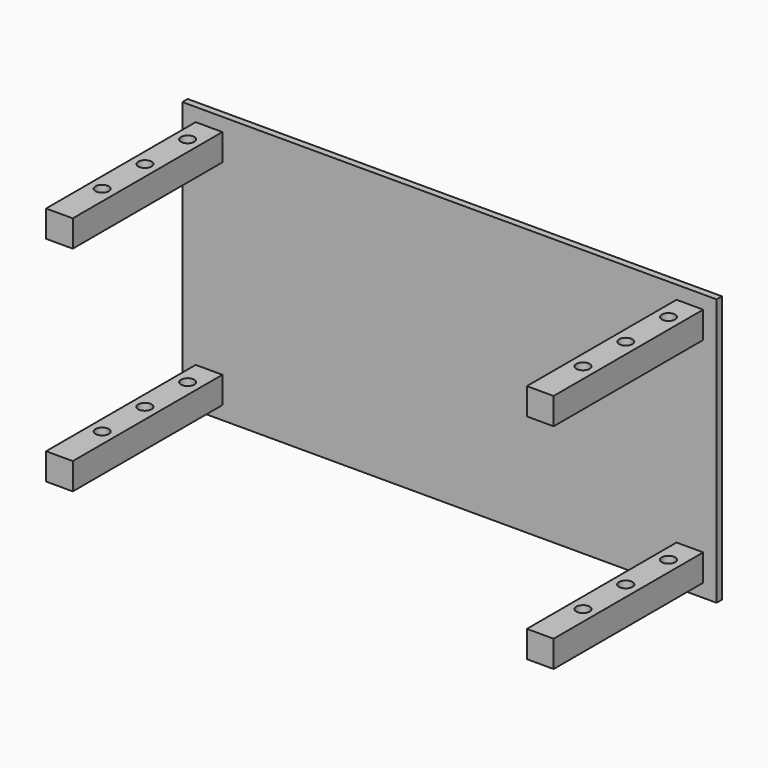
from build123d import *

# Parameters (mm, degrees)
F0_W     = 1000
F0_H     = 500
F2_DEPTH = 25
F1_W     = 100
F1_H     = 100
F3_DEPTH = 725
F4_R     = 25
F5_DEPTH = 100


with BuildPart() as f2:
    # F0 (on Front) → F2 (new body)
    with BuildSketch(Plane.XZ):
        with Locations((500, 250)):
            Rectangle(F0_W, F0_H)
    extrude(amount=F2_DEPTH)

    # F1 (on Front) → F3 (join)
    with BuildSketch(Plane.XZ):
        with Locations((100, 100)):
            Rectangle(F1_W, F1_H)
    extrude(amount=F3_DEPTH)

    # F4 (on face) → F5 (cut, through all)
    with BuildSketch(Plane(origin=(0, 0, 50), x_dir=(1, 0, 0), z_dir=(0, 0, -1))):
        with Locations((100, 125)):
            Circle(F4_R)
        with Locations((100, 325)):
            Circle(F4_R)
        with Locations((100, 525)):
            Circle(F4_R)
    extrude(amount=-F5_DEPTH, mode=Mode.SUBTRACT)

    # F8: F2 across plane


with BuildPart() as f2_1:
    add(f2.part)
    add(f2.part.mirror(Plane(origin=(500, -12.5, 500), x_dir=(1, 0, 0), z_dir=(0, 0, 1))))

    # F9: F2 across plane


with BuildPart() as f2_2:
    add(f2_1.part)
    add(f2_1.part.mirror(Plane(origin=(1000, -12.5, 250), x_dir=(0, 1, 0), z_dir=(1, 0, 0))))


solid = f2_2.part
